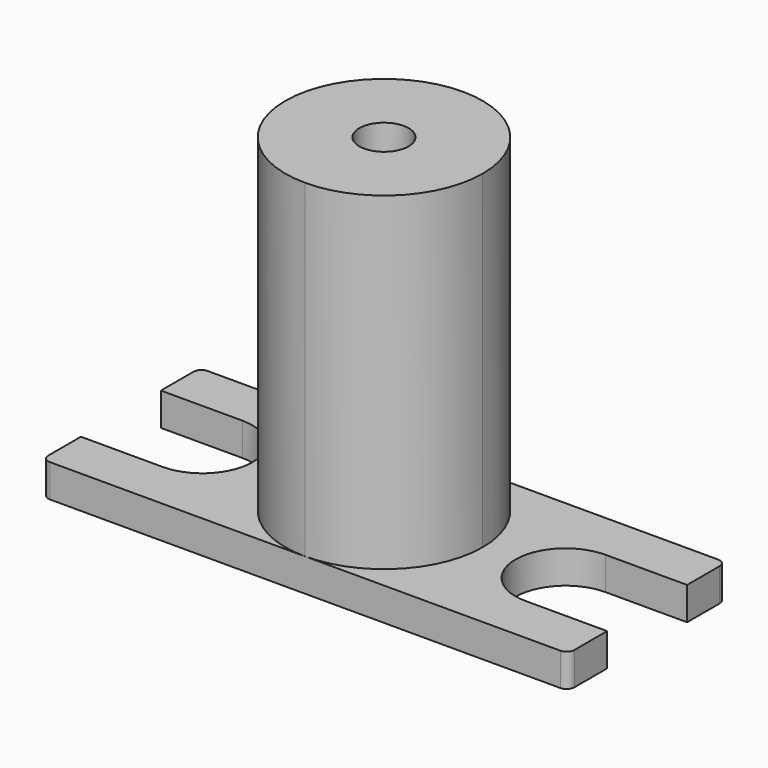
from build123d import *

# Parameters (mm, degrees)
F1_DEPTH = 6.35
F2_R     = 4.7625
F3_DEPTH = 63.5
F4_R     = 12.7
F5_DEPTH = 63.5


with BuildPart() as f1:
    # F0 (on Top) → F1 (new body)
    with BuildSketch(Plane.XY):
        with BuildLine():
            Line((0, 7.874), (0, 0))
            Line((0, 0), (15.748, 0))
            ThreePointArc((15.748, 0), (25.4, -9.652), (15.748, -19.304))
            Line((15.748, -19.304), (0, -19.304))
            Line((0, -19.304), (0, -27.178))
            ThreePointArc((0, -27.178), (0.446369, -28.255631), (1.524, -28.702))
            Line((1.524, -28.702), (100.076, -28.702))
            ThreePointArc((100.076, -28.702), (101.153631, -28.255631), (101.6, -27.178))
            Line((101.6, -27.178), (101.6, -19.304))
            Line((101.6, -19.304), (85.852, -19.304))
            ThreePointArc((85.852, -19.304), (76.2, -9.652), (85.852, 0))
            Line((85.852, 0), (101.6, 0))
            Line((101.6, 0), (101.6, 7.874))
            ThreePointArc((101.6, 7.874), (101.153631, 8.951631), (100.076, 9.398))
            Line((100.076, 9.398), (1.524, 9.398))
            ThreePointArc((1.524, 9.398), (0.446369, 8.951631), (0, 7.874))
        make_face()
    extrude(amount=-F1_DEPTH)

    # F2 (on face) → F3 (join)
    with BuildSketch(Plane.XY):
        with BuildLine():
            ThreePointArc((50.8, -28.702), (64.270384, -23.122384), (69.85, -9.652))
            ThreePointArc((69.85, -9.652), (64.270384, 3.818384), (50.8, 9.398))
            ThreePointArc((50.8, 9.398), (31.75, -9.652), (50.8, -28.702))
        make_face()
        with Locations((50.8, -9.652)):
            Circle(F2_R, mode=Mode.SUBTRACT)
    extrude(amount=F3_DEPTH)

    # F4 (on face) → F5 (cut)
    with BuildSketch(Plane(origin=(0, 0, -6.35), x_dir=(1, 0, 0), z_dir=(0, 0, -1))):
        with Locations((50.8, 9.652)):
            Circle(F4_R)
    extrude(amount=-F5_DEPTH, mode=Mode.SUBTRACT)


solid = f1.part
